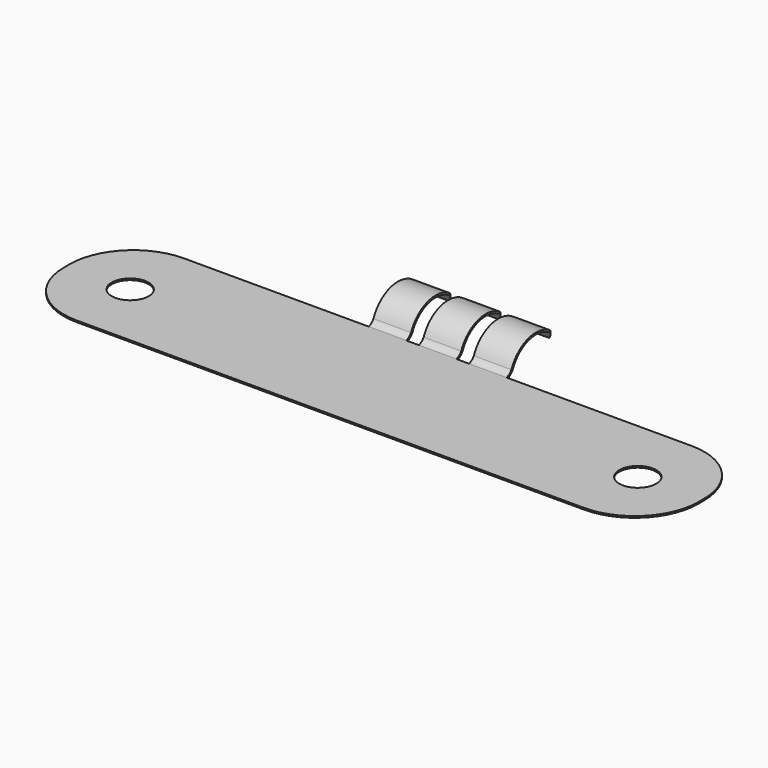
from build123d import *

# Parameters (mm, degrees)
SKETCH_R        = 1.75
PAD_DEPTH       = 3.05
SKETCH001_W     = 60.21645
SKETCH001_H     = 13.401505
POCKET_DEPTH    = 2.9
POCKET001_DEPTH = 3.051
POCKET002_DEPTH = 36.525
FILLET_R        = 6


with BuildPart() as part:
    # Sketch → Pad (new body)
    with BuildSketch(Plane.XY):
        Polygon((-30, 0), (30, 0), (30, 12.7), (6.524, 12.7), (6.524, 19.05), (2.968, 19.05), (2.968, 12.7), (1.778, 12.7), (1.778, 19.05), (-1.778, 19.05), (-1.778, 12.7), (-2.968, 12.7), (-2.968, 19.05), (-6.524, 19.05), (-6.524, 12.7), (-30, 12.7), align=None)
        with Locations((-24, 6.35)):
            Circle(SKETCH_R, mode=Mode.SUBTRACT)
        with Locations((24, 6.35)):
            Circle(SKETCH_R, mode=Mode.SUBTRACT)
    extrude(amount=PAD_DEPTH)

    # Sketch001 (on Face20 of Pad) → Pocket (cut)
    with BuildSketch(Plane.XY.offset(3.05)):
        with Locations((-0.108225, 5.999248)):
            Rectangle(SKETCH001_W, SKETCH001_H)
    extrude(amount=-POCKET_DEPTH, mode=Mode.SUBTRACT)

    # Sketch002 (on Face25 of Pocket) → Pocket001 (cut, through all)
    with BuildSketch(Plane.XY.offset(3.05)):
        with BuildLine():
            ThreePointArc((-2.968, 17.272), (-4.746, 19.05), (-6.524, 17.272))
            Line((-6.524, 17.272), (-7.554864, 19.132154))
            Line((-7.554864, 19.132154), (-6.342233, 20.53426))
            Line((-6.342233, 20.53426), (5.632503, 20.53426))
            Line((5.632503, 20.53426), (7.211451, 19.637419))
            Line((6.524, 17.272), (7.211451, 19.637419))
            ThreePointArc((6.524, 17.272), (4.746, 19.05), (2.968, 17.272))
            Line((2.968, 17.272), (1.778, 17.272))
            ThreePointArc((1.778, 17.272), (0, 19.05), (-1.778, 17.272))
            Line((-1.778, 17.272), (-2.968, 17.272))
        make_face()
    extrude(amount=-POCKET001_DEPTH, mode=Mode.SUBTRACT)

    # Sketch003 (on Face7 of Pocket001) → Pocket002 (cut, through all)
    with BuildSketch(Plane(origin=(-6.524, 0, 0), x_dir=(0, -1, 0), z_dir=(-1, 0, 0))):
        with BuildLine():
            Line((-12.816161, 0), (-12.862388, -0.39199))
            Line((-12.862388, -0.39199), (-19.923561, -0.39199))
            Line((-19.923561, -0.39199), (-19.923561, 4.294415))
            Line((-19.923561, 4.294415), (-11.624612, 3.801784))
            Line((-11.624612, 3.801784), (-12.7, 0.15))
            ThreePointArc((-13.25543, 0.582616), (-13.017245, 0.315556), (-12.7, 0.15))
            ThreePointArc((-13.25543, 0.582616), (-16.088623, 2.498132), (-18.990517, 0.68838))
            Line((-18.799929, 0.68838), (-18.990517, 0.68838))
            ThreePointArc((-13.404078, 0.493377), (-16.039328, 2.325158), (-18.799929, 0.68838))
            ThreePointArc((-13.404078, 0.493377), (-13.14319, 0.207281), (-12.816161, 0))
        make_face()
    extrude(amount=-POCKET002_DEPTH, mode=Mode.SUBTRACT)

    # Fillet
    fillet_edges = [part.edges().sort_by_distance(p)[0] for p in [
        (30, 0, 0.075),
        (30, 12.7, 0.075),
        (-30, 12.7, 0.075),
        (-30, 0, 0.075),
    ]]
    fillet(fillet_edges, radius=FILLET_R)


solid = part.part
